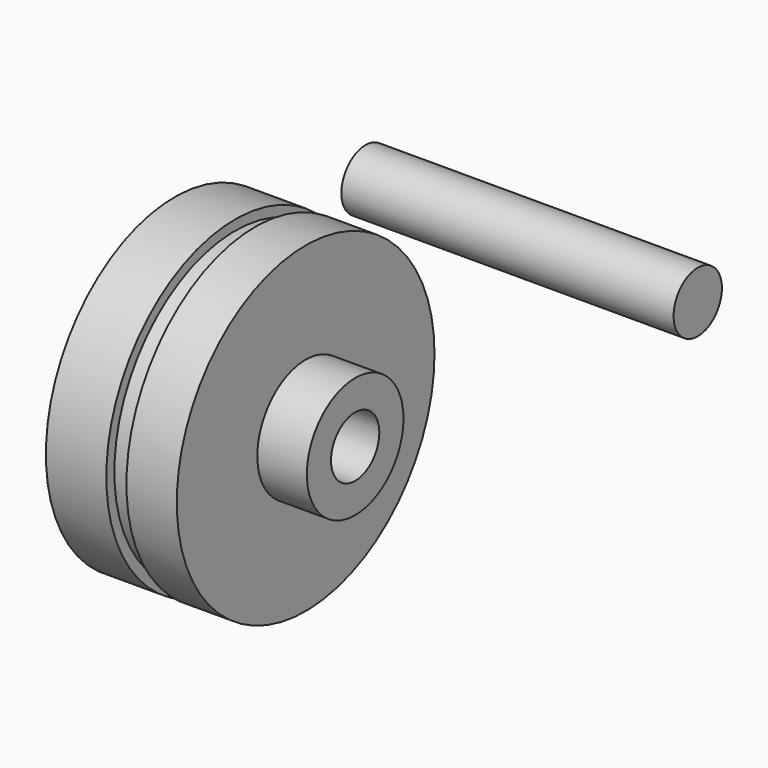
from build123d import *

# Parameters (mm, degrees)
F0_R        = 19.05
F0_R_2      = 9.525
F2_DEPTH    = 34.671
F3_R        = 50.8
F3_R_2      = 47.625
F4_DEPTH    = 22.225
F5_DEPTH    = 56.897
F4_FACE_R   = 50.8
F4_FACE_R_2 = 19.05
F6_DEPTH    = 3.175
F7_R        = 4.7625
F8_DEPTH    = 25.4
F1_R        = 9.525
F9_DEPTH    = 52.3875


with BuildPart() as f2:
    # F0 (on Right) → F2 (new body, symmetric)
    with BuildSketch(Plane.YZ):
        Circle(F0_R)
        Circle(F0_R_2, mode=Mode.SUBTRACT)
    extrude(amount=F2_DEPTH, both=True)

    # F3 (on Right) → F4 (join, symmetric)
    with BuildSketch(Plane.YZ):
        Circle(F3_R)
        Circle(F3_R_2, mode=Mode.SUBTRACT)
        Circle(F3_R_2)
    extrude(amount=F4_DEPTH, both=True)

    # F5 (cut, through all): a face of the model
    f5_faces = [f2.faces().sort_by_distance(p)[0] for p in [
        (22.225, 0, 0),
    ]]
    extrude(f5_faces, amount=-F5_DEPTH, mode=Mode.SUBTRACT)

    # F3 (on Right) + F4_face (on face) → F6 (cut, symmetric)
    with BuildSketch(Plane.YZ):
        Circle(F3_R)
        Circle(F3_R_2, mode=Mode.SUBTRACT)
    with BuildSketch(Plane.YZ.offset(22.225)):
        Circle(F4_FACE_R)
        Circle(F4_FACE_R_2, mode=Mode.SUBTRACT)
    extrude(amount=F6_DEPTH, both=True, mode=Mode.SUBTRACT)

    # F7 (on Top) → F8 (cut)
    with BuildSketch(Plane.XY):
        with Locations((-28.1682106339, 0)):
            Circle(F7_R)
    extrude(amount=F8_DEPTH, mode=Mode.SUBTRACT)


with BuildPart() as f9:
    # F1 (on Right) → F9 (new body, symmetric)
    with BuildSketch(Plane.YZ):
        with Locations((112.9034556301, 0)):
            Circle(F1_R)
    extrude(amount=F9_DEPTH, both=True)


solid = Compound([f2.part, f9.part])
